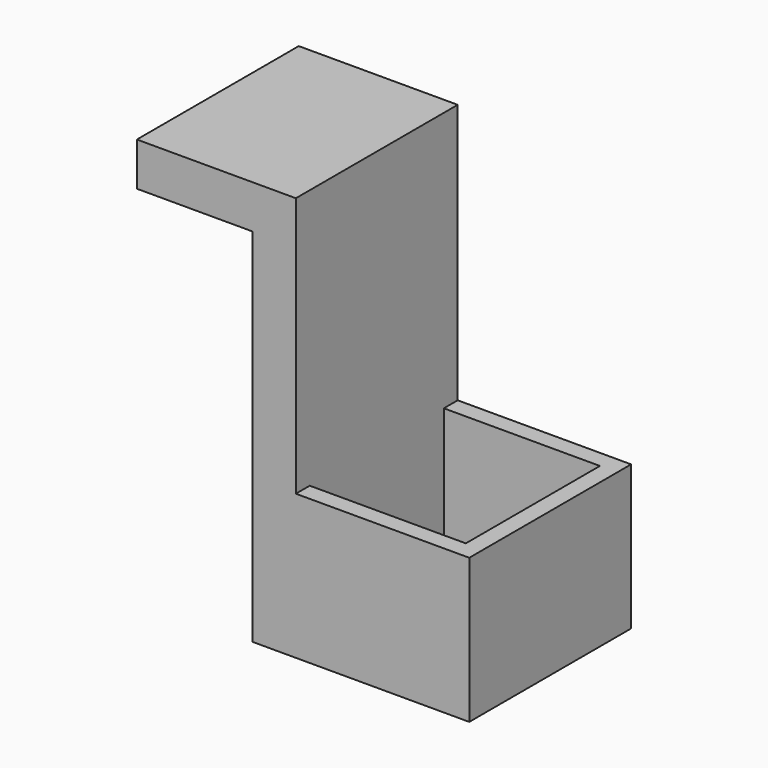
from build123d import *

# Parameters (mm, degrees)
F1_DEPTH = 70
F2_W     = 54
F2_H     = 58
F3_DEPTH = 40


with BuildPart() as f1:
    # F0 (on Front) → F1 (new body)
    with BuildSketch(Plane.XZ):
        Polygon((-15, 0), (0, 0), (60, 0), (60, 50), (0, 50), (0, 140), (-15, 140), (-55, 140), (-55, 125), (-15, 125), align=None)
    extrude(amount=F1_DEPTH)

    # F2 (on face) → F3 (cut)
    with BuildSketch(Plane.XY.offset(50)):
        with Locations((27, -35)):
            Rectangle(F2_W, F2_H)
    extrude(amount=-F3_DEPTH, mode=Mode.SUBTRACT)


solid = f1.part
